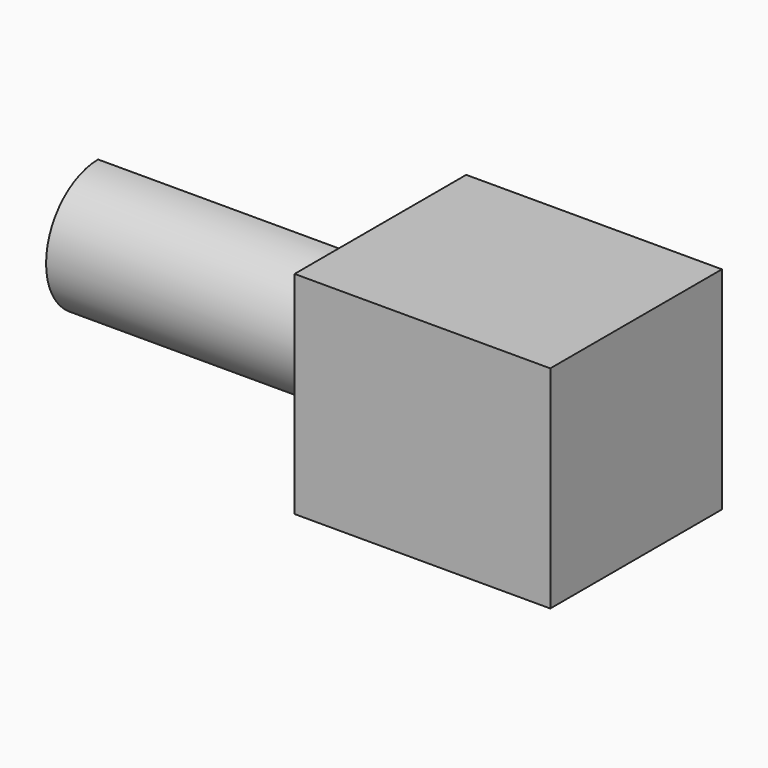
from build123d import *

# Parameters (mm, degrees)
F0_W     = 21.3086809963
F0_H     = 21.0013445467
F1_DEPTH = 25.4
F3_DEPTH = 53.3642210066


with BuildPart() as f1:
    # F0 (on Right) → F1 (new body)
    with BuildSketch(Plane.YZ):
        with Locations((-10.6543404981, 10.5006722733)):
            Rectangle(F0_W, F0_H)
    extrude(amount=F1_DEPTH)

    # F2 (on face) → F3 (join)
    with BuildSketch(Plane.YZ.offset(25.4)):
        with BuildLine():
            Line((-10.7450820506, 4.6855835698), (-10.7450820506, 17.6185862639))
            ThreePointArc((-10.7450820506, 17.6185862639), (-17.2063226354, 11.1520849168), (-10.7450820506, 4.6855835698))
        make_face()
    extrude(amount=-F3_DEPTH)


solid = f1.part
